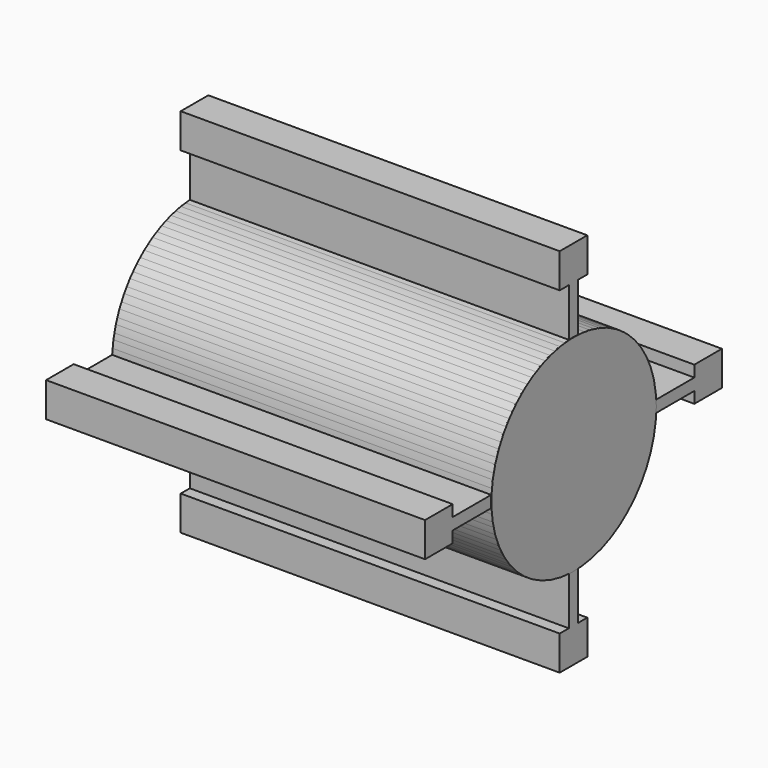
from build123d import *

# Parameters (mm, degrees)
SKETCH001_R  = 272
PAD_DEPTH    = 1000
SKETCH002_R  = 272
PAD001_DEPTH = 1
SKETCH_R     = 270
PAD002_DEPTH = 1000


with BuildPart() as pad:
    # Sketch001 → Pad (new body)
    with BuildSketch(Plane.YZ.offset(-500)):
        Circle(SKETCH001_R)
    extrude(amount=PAD_DEPTH)


with BuildPart() as rotor_face02:
    # Sketch002 → Pad001 (new body)
    with BuildSketch(Plane.YZ.offset(500)):
        Circle(SKETCH002_R)
    extrude(amount=PAD001_DEPTH)


with BuildPart() as obj1:
    # Sketch → Pad002 (new body)
    with BuildSketch(Plane.YZ.offset(-500)):
        with BuildLine():
            ThreePointArc((-15.5, 271.558005), (-192.333044, 192.333044), (-271.558005, 15.5))
            Line((-398.558005, 15.5), (-271.558005, 15.5))
            Line((-398.558005, 45.5), (-398.558005, 15.5))
            Line((-489.558005, 45.5), (-398.558005, 45.5))
            Line((-489.558005, -45.5), (-489.558005, 45.5))
            Line((-398.558005, -45.5), (-489.558005, -45.5))
            Line((-398.558005, -15.5), (-398.558005, -45.5))
            Line((-271.558005, -15.5), (-398.558005, -15.5))
            ThreePointArc((-271.558005, -15.5), (-192.333044, -192.333044), (-15.5, -271.558005))
            Line((-15.5, -398.558005), (-15.5, -271.558005))
            Line((-45.5, -398.558005), (-15.5, -398.558005))
            Line((-45.5, -489.558005), (-45.5, -398.558005))
            Line((45.5, -489.558005), (-45.5, -489.558005))
            Line((45.5, -398.558005), (45.5, -489.558005))
            Line((15.5, -398.558005), (45.5, -398.558005))
            Line((15.5, -271.558005), (15.5, -398.558005))
            ThreePointArc((15.5, -271.558005), (192.333044, -192.333044), (271.558005, -15.5))
            Line((398.558005, -15.5), (271.558005, -15.5))
            Line((398.558005, -45.5), (398.558005, -15.5))
            Line((489.558005, -45.5), (398.558005, -45.5))
            Line((489.558005, 45.5), (489.558005, -45.5))
            Line((398.558005, 45.5), (489.558005, 45.5))
            Line((398.558005, 15.5), (398.558005, 45.5))
            Line((271.558005, 15.5), (398.558005, 15.5))
            ThreePointArc((271.558005, 15.5), (192.333044, 192.333044), (15.5, 271.558005))
            Line((15.5, 398.558005), (15.5, 271.558005))
            Line((45.5, 398.558005), (15.5, 398.558005))
            Line((45.5, 489.558005), (45.5, 398.558005))
            Line((-45.5, 489.558005), (45.5, 489.558005))
            Line((-45.5, 398.558005), (-45.5, 489.558005))
            Line((-15.5, 398.558005), (-45.5, 398.558005))
            Line((-15.5, 271.558005), (-15.5, 398.558005))
        make_face()
        Circle(SKETCH_R, mode=Mode.SUBTRACT)
    extrude(amount=PAD002_DEPTH)


solid = Compound([pad.part, rotor_face02.part, obj1.part])
